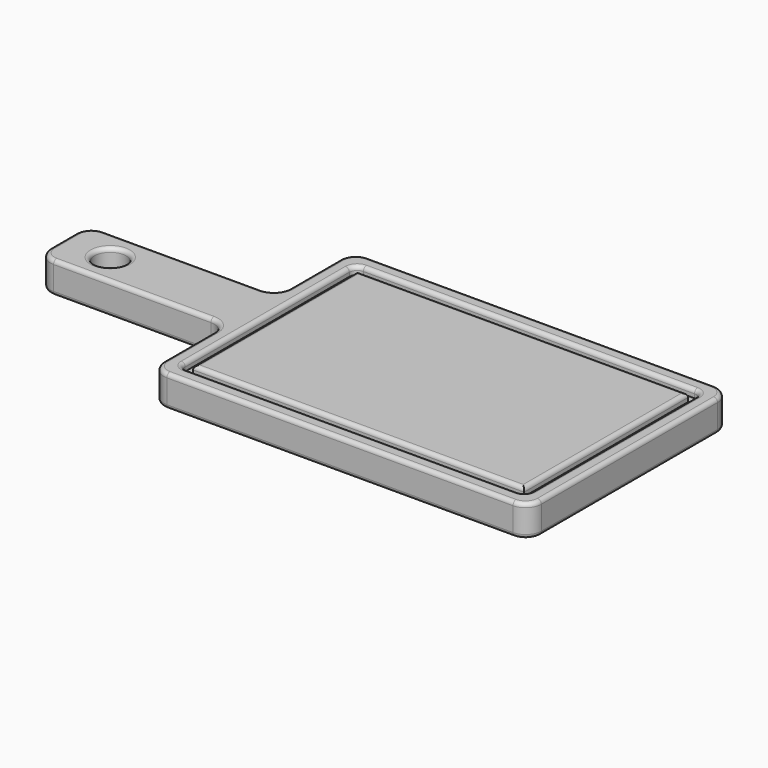
from build123d import *

# Parameters (mm, degrees)
F0_W     = 152.4
F0_H     = 50.8
F1_DEPTH = 25.4
F2_R     = 12.7
F3_DEPTH = 25.4
F5_DEPTH = 6.35
F6_R     = 6.35
F7_R     = 6.35
F8_R     = 12.7
F9_R     = 3.175


with BuildPart() as f1:
    # F0 (on Top) → F1 (new body)
    with BuildSketch(Plane.XY):
        Polygon((0, 76.2), (0, 0), (304.8, 0), (304.8, 203.2), (0, 203.2), (0, 127), align=None)
        with Locations((-76.2, 101.6)):
            Rectangle(F0_W, F0_H)
    extrude(amount=F1_DEPTH)

    # F2 (on face) → F3 (cut)
    with BuildSketch(Plane.XY.offset(25.4)):
        with Locations((-114.3, 101.6)):
            Circle(F2_R)
    extrude(amount=-F3_DEPTH, mode=Mode.SUBTRACT)

    # F4 (on face) → F5 (cut)
    with BuildSketch(Plane.XY.offset(25.4)):
        Polygon((12.4460036278, 76.2), (12.4460036278, 12.4460036278), (292.3539963722, 12.4460036278), (292.3539963722, 190.7539963722), (12.4460036278, 190.7539963722), align=None)
        Polygon((286.0039963722, 184.4039963722), (286.0039963722, 18.7960036278), (18.7960036278, 18.7960036278), (18.7960036278, 76.2), (18.7960036278, 184.4039963722), align=None, mode=Mode.SUBTRACT)
    extrude(amount=-F5_DEPTH, mode=Mode.SUBTRACT)

    # F6
    f6_edges = [f1.edges().sort_by_distance(p)[0] for p in [
        (12.446004, 190.753996, 22.225),
        (292.353996, 190.753996, 22.225),
        (12.446004, 12.446004, 22.225),
    ]]
    fillet(f6_edges, radius=F6_R)

    # F7
    f7_edges = [f1.edges().sort_by_distance(p)[0] for p in [
        (292.353996, 12.446004, 22.225),
    ]]
    fillet(f7_edges, radius=F7_R)

    # F8
    f8_edges = [f1.edges().sort_by_distance(p)[0] for p in [
        (0, 203.2, 12.7),
        (-152.4, 127, 12.7),
        (-152.4, 76.2, 12.7),
        (0, 0, 12.7),
        (304.8, 203.2, 12.7),
        (304.8, 0, 12.7),
        (0, 76.2, 12.7),
        (0, 127, 12.7),
    ]]
    fillet(f8_edges, radius=F8_R)

    # F9
    f9_edges = [f1.edges().sort_by_distance(p)[0] for p in [
        (152.4, 184.403996, 25.4),
        (286.003996, 101.6, 25.4),
        (152.4, 18.796004, 25.4),
        (18.796004, 101.6, 25.4),
        (0, 38.1, 25.4),
        (-3.719744, 72.480256, 25.4),
        (3.719744, 3.719744, 25.4),
        (-76.2, 76.2, 25.4),
        (152.4, 0, 25.4),
        (-148.680256, 79.919744, 25.4),
        (301.080256, 3.719744, 25.4),
        (-152.4, 101.6, 25.4),
        (304.8, 101.6, 25.4),
        (-148.680256, 123.280256, 25.4),
        (301.080256, 199.480256, 25.4),
        (-76.2, 127, 25.4),
        (152.4, 203.2, 25.4),
        (-3.719744, 130.719744, 25.4),
        (3.719744, 199.480256, 25.4),
        (0, 165.1, 25.4),
        (152.4, 12.446004, 25.4),
        (290.494124, 14.305876, 25.4),
        (14.305876, 14.305876, 25.4),
        (292.353996, 101.6, 25.4),
        (12.446004, 101.6, 25.4),
        (290.494124, 188.894124, 25.4),
        (14.305876, 188.894124, 25.4),
        (152.4, 190.753996, 25.4),
        (-127, 101.6, 25.4),
        (0, 38.1, 0),
        (-3.719744, 72.480256, 0),
        (3.719744, 3.719744, 0),
        (-76.2, 76.2, 0),
        (152.4, 0, 0),
        (-148.680256, 79.919744, 0),
        (301.080256, 3.719744, 0),
        (-152.4, 101.6, 0),
        (304.8, 101.6, 0),
        (-148.680256, 123.280256, 0),
        (301.080256, 199.480256, 0),
        (-76.2, 127, 0),
        (152.4, 203.2, 0),
        (-3.719744, 130.719744, 0),
        (3.719744, 199.480256, 0),
        (0, 165.1, 0),
        (-127, 101.6, 0),
    ]]
    fillet(f9_edges, radius=F9_R)


solid = f1.part
